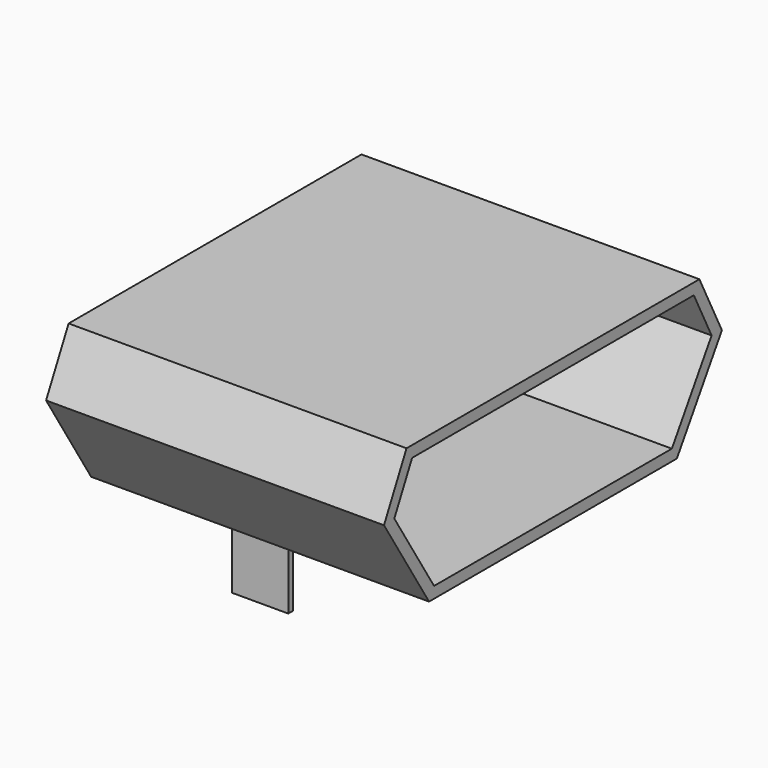
from build123d import *

# Parameters (mm, degrees)
PAD004_DEPTH            = 6
THICKNESS_T             = -0.2
SKETCH016_W             = 0.1
SKETCH016_H             = 1
PAD005_DEPTH            = 1
SKETCH017_W             = 0.5
SKETCH017_H             = 0.5
PAD006_DEPTH            = 0.4
SKETCH018_W             = 0.32
SKETCH018_H             = 1.35
PAD007_DEPTH            = 0.1
BODY002_ROLL_ANGLE      = 90
BODY002_PLACEMENT_ANGLE = 90


with BuildPart() as part:
    # Sketch015 → Pad004 (new body)
    with BuildSketch(Plane.XY):
        Polygon((0, 0), (6.5, 0), (7, -1), (6, -2.6), (0.5, -2.6), (-0.5, -1), align=None)
    extrude(amount=PAD004_DEPTH)

    # Thickness
    thickness_openings = [part.faces().sort_by_distance(p)[0] for p in [
        (3.25, -1.25728, 6),
    ]]
    offset(amount=THICKNESS_T, openings=thickness_openings)

    # Sketch016 (on Face5 of Thickness) → Pad005 (join)
    with BuildSketch(Plane.XZ.offset(2.6)):
        with Locations((5.95, 3)):
            Rectangle(SKETCH016_W, SKETCH016_H)
        with Locations((0.55, 3)):
            Rectangle(SKETCH016_W, SKETCH016_H)
    extrude(amount=PAD005_DEPTH)

    # Sketch017 (on Face7 of Pad005) → Pad006 (join)
    with BuildSketch(Plane.XZ.offset(2.6)):
        with Locations((1.35, 0.25)):
            Rectangle(SKETCH017_W, SKETCH017_H)
        with Locations((5.15, 0.25)):
            Rectangle(SKETCH017_W, SKETCH017_H)
    extrude(amount=PAD006_DEPTH)

    # Sketch018 (on Face7 of Pad006) → Pad007 (join)
    with BuildSketch(Plane.XZ.offset(2.6)):
        with Locations((1.81, -0.025)):
            Rectangle(SKETCH018_W, SKETCH018_H)
        with Locations((2.53, -0.025)):
            Rectangle(SKETCH018_W, SKETCH018_H)
        with Locations((3.25, -0.025)):
            Rectangle(SKETCH018_W, SKETCH018_H)
        with Locations((3.97, -0.025)):
            Rectangle(SKETCH018_W, SKETCH018_H)
        with Locations((4.69, -0.025)):
            Rectangle(SKETCH018_W, SKETCH018_H)
    extrude(amount=PAD007_DEPTH)


with BuildPart() as part_1:
    # Body002 roll: moved
    add(part.part.rotate(Axis((0, 0, 0), (1, 0, 0)), BODY002_ROLL_ANGLE))


with BuildPart() as part_2:
    # Body002 placement: moved
    add(part_1.part.moved(Location((86, -3, 12))).rotate(Axis((86, -3, 12), (0, 0, 1)), BODY002_PLACEMENT_ANGLE))


solid = part_2.part
